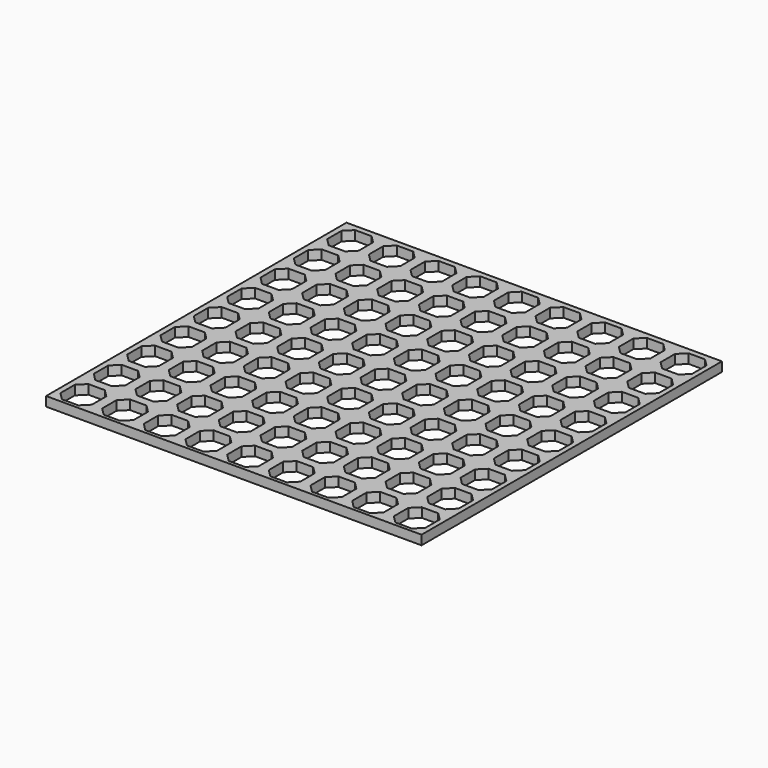
from build123d import *

# Parameters (mm, degrees)
F0_W     = 254
F0_H     = 254
F1_DEPTH = 6.35
F3_DEPTH = 25.4


with BuildPart() as f1:
    # F0 (on Top) → F1 (new body)
    with BuildSketch(Plane.XY):
        Rectangle(F0_W, F0_H)
    extrude(amount=F1_DEPTH)

    # F2 (on face) → F3 (cut)
    with BuildSketch(Plane.XY.offset(6.35)):
        Polygon((-106.986462, 123.19), (-118.11, 123.19), (-123.19, 118.11), (-123.19, 105.934143), (-118.11, 100.854143), (-106.986462, 100.854143), (-101.906462, 105.934143), (-101.906462, 118.11), align=None)
        Polygon((-73.712462, 105.934143), (-73.712462, 118.11), (-78.792462, 123.19), (-89.916, 123.19), (-94.996, 118.11), (-94.996, 105.934143), (-89.916, 100.854143), (-78.792462, 100.854143), align=None)
        Polygon((-45.518462, 105.934143), (-45.518462, 118.11), (-50.598462, 123.19), (-61.722, 123.19), (-66.802, 118.11), (-66.802, 105.934143), (-61.722, 100.854143), (-50.598462, 100.854143), align=None)
        Polygon((-17.324462, 105.934143), (-17.324462, 118.11), (-22.404462, 123.19), (-33.528, 123.19), (-38.608, 118.11), (-38.608, 105.934143), (-33.528, 100.854143), (-22.404462, 100.854143), align=None)
        Polygon((10.869538, 105.934143), (10.869538, 118.11), (5.789538, 123.19), (-5.334, 123.19), (-10.414, 118.11), (-10.414, 105.934143), (-5.334, 100.854143), (5.789538, 100.854143), align=None)
        Polygon((39.063538, 105.934143), (39.063538, 118.11), (33.983538, 123.19), (22.86, 123.19), (17.78, 118.11), (17.78, 105.934143), (22.86, 100.854143), (33.983538, 100.854143), align=None)
        Polygon((67.257538, 105.934143), (67.257538, 118.11), (62.177538, 123.19), (51.054, 123.19), (45.974, 118.11), (45.974, 105.934143), (51.054, 100.854143), (62.177538, 100.854143), align=None)
        Polygon((95.451538, 105.934143), (95.451538, 118.11), (90.371538, 123.19), (79.248, 123.19), (74.168, 118.11), (74.168, 105.934143), (79.248, 100.854143), (90.371538, 100.854143), align=None)
        Polygon((123.645538, 105.934143), (123.645538, 118.11), (118.565538, 123.19), (107.442, 123.19), (102.362, 118.11), (102.362, 105.934143), (107.442, 100.854143), (118.565538, 100.854143), align=None)
        Polygon((151.839538, 105.934143), (151.839538, 118.11), (146.759538, 123.19), (135.636, 123.19), (130.556, 118.11), (130.556, 105.934143), (135.636, 100.854143), (146.759538, 100.854143), align=None)
        Polygon((107.442, 94.996), (102.362, 89.916), (102.362, 77.740143), (107.442, 72.660143), (118.565538, 72.660143), (123.645538, 77.740143), (123.645538, 89.916), (118.565538, 94.996), align=None)
        Polygon((51.054, 94.996), (45.974, 89.916), (45.974, 77.740143), (51.054, 72.660143), (62.177538, 72.660143), (67.257538, 77.740143), (67.257538, 89.916), (62.177538, 94.996), align=None)
        Polygon((-61.722, 94.996), (-66.802, 89.916), (-66.802, 77.740143), (-61.722, 72.660143), (-50.598462, 72.660143), (-45.518462, 77.740143), (-45.518462, 89.916), (-50.598462, 94.996), align=None)
        Polygon((-89.916, 94.996), (-94.996, 89.916), (-94.996, 77.740143), (-89.916, 72.660143), (-78.792462, 72.660143), (-73.712462, 77.740143), (-73.712462, 89.916), (-78.792462, 94.996), align=None)
        Polygon((-118.11, 94.996), (-123.19, 89.916), (-123.19, 77.740143), (-118.11, 72.660143), (-106.986462, 72.660143), (-101.906462, 77.740143), (-101.906462, 89.916), (-106.986462, 94.996), align=None)
        Polygon((151.839538, 77.740143), (151.839538, 89.916), (146.759538, 94.996), (135.636, 94.996), (130.556, 89.916), (130.556, 77.740143), (135.636, 72.660143), (146.759538, 72.660143), align=None)
        Polygon((95.451538, 77.740143), (95.451538, 89.916), (90.371538, 94.996), (79.248, 94.996), (74.168, 89.916), (74.168, 77.740143), (79.248, 72.660143), (90.371538, 72.660143), align=None)
        Polygon((39.063538, 77.740143), (39.063538, 89.916), (33.983538, 94.996), (22.86, 94.996), (17.78, 89.916), (17.78, 77.740143), (22.86, 72.660143), (33.983538, 72.660143), align=None)
        Polygon((-17.324462, 77.740143), (-17.324462, 89.916), (-22.404462, 94.996), (-33.528, 94.996), (-38.608, 89.916), (-38.608, 77.740143), (-33.528, 72.660143), (-22.404462, 72.660143), align=None)
        Polygon((-5.334, 94.996), (-10.414, 89.916), (-10.414, 77.740143), (-5.334, 72.660143), (5.789538, 72.660143), (10.869538, 77.740143), (10.869538, 89.916), (5.789538, 94.996), align=None)
        Polygon((107.442, 66.802), (102.362, 61.722), (102.362, 49.546143), (107.442, 44.466143), (118.565538, 44.466143), (123.645538, 49.546143), (123.645538, 61.722), (118.565538, 66.802), align=None)
        Polygon((51.054, 66.802), (45.974, 61.722), (45.974, 49.546143), (51.054, 44.466143), (62.177538, 44.466143), (67.257538, 49.546143), (67.257538, 61.722), (62.177538, 66.802), align=None)
        Polygon((-61.722, 66.802), (-66.802, 61.722), (-66.802, 49.546143), (-61.722, 44.466143), (-50.598462, 44.466143), (-45.518462, 49.546143), (-45.518462, 61.722), (-50.598462, 66.802), align=None)
        Polygon((-89.916, 66.802), (-94.996, 61.722), (-94.996, 49.546143), (-89.916, 44.466143), (-78.792462, 44.466143), (-73.712462, 49.546143), (-73.712462, 61.722), (-78.792462, 66.802), align=None)
        Polygon((-118.11, 66.802), (-123.19, 61.722), (-123.19, 49.546143), (-118.11, 44.466143), (-106.986462, 44.466143), (-101.906462, 49.546143), (-101.906462, 61.722), (-106.986462, 66.802), align=None)
        Polygon((151.839538, 49.546143), (151.839538, 61.722), (146.759538, 66.802), (135.636, 66.802), (130.556, 61.722), (130.556, 49.546143), (135.636, 44.466143), (146.759538, 44.466143), align=None)
        Polygon((95.451538, 49.546143), (95.451538, 61.722), (90.371538, 66.802), (79.248, 66.802), (74.168, 61.722), (74.168, 49.546143), (79.248, 44.466143), (90.371538, 44.466143), align=None)
        Polygon((39.063538, 49.546143), (39.063538, 61.722), (33.983538, 66.802), (22.86, 66.802), (17.78, 61.722), (17.78, 49.546143), (22.86, 44.466143), (33.983538, 44.466143), align=None)
        Polygon((-17.324462, 49.546143), (-17.324462, 61.722), (-22.404462, 66.802), (-33.528, 66.802), (-38.608, 61.722), (-38.608, 49.546143), (-33.528, 44.466143), (-22.404462, 44.466143), align=None)
        Polygon((-5.334, 66.802), (-10.414, 61.722), (-10.414, 49.546143), (-5.334, 44.466143), (5.789538, 44.466143), (10.869538, 49.546143), (10.869538, 61.722), (5.789538, 66.802), align=None)
        Polygon((107.442, 38.608), (102.362, 33.528), (102.362, 21.352143), (107.442, 16.272143), (118.565538, 16.272143), (123.645538, 21.352143), (123.645538, 33.528), (118.565538, 38.608), align=None)
        Polygon((51.054, 38.608), (45.974, 33.528), (45.974, 21.352143), (51.054, 16.272143), (62.177538, 16.272143), (67.257538, 21.352143), (67.257538, 33.528), (62.177538, 38.608), align=None)
        Polygon((-61.722, 38.608), (-66.802, 33.528), (-66.802, 21.352143), (-61.722, 16.272143), (-50.598462, 16.272143), (-45.518462, 21.352143), (-45.518462, 33.528), (-50.598462, 38.608), align=None)
        Polygon((-89.916, 38.608), (-94.996, 33.528), (-94.996, 21.352143), (-89.916, 16.272143), (-78.792462, 16.272143), (-73.712462, 21.352143), (-73.712462, 33.528), (-78.792462, 38.608), align=None)
        Polygon((-118.11, 38.608), (-123.19, 33.528), (-123.19, 21.352143), (-118.11, 16.272143), (-106.986462, 16.272143), (-101.906462, 21.352143), (-101.906462, 33.528), (-106.986462, 38.608), align=None)
        Polygon((151.839538, 21.352143), (151.839538, 33.528), (146.759538, 38.608), (135.636, 38.608), (130.556, 33.528), (130.556, 21.352143), (135.636, 16.272143), (146.759538, 16.272143), align=None)
        Polygon((95.451538, 21.352143), (95.451538, 33.528), (90.371538, 38.608), (79.248, 38.608), (74.168, 33.528), (74.168, 21.352143), (79.248, 16.272143), (90.371538, 16.272143), align=None)
        Polygon((39.063538, 21.352143), (39.063538, 33.528), (33.983538, 38.608), (22.86, 38.608), (17.78, 33.528), (17.78, 21.352143), (22.86, 16.272143), (33.983538, 16.272143), align=None)
        Polygon((-17.324462, 21.352143), (-17.324462, 33.528), (-22.404462, 38.608), (-33.528, 38.608), (-38.608, 33.528), (-38.608, 21.352143), (-33.528, 16.272143), (-22.404462, 16.272143), align=None)
        Polygon((-5.334, 38.608), (-10.414, 33.528), (-10.414, 21.352143), (-5.334, 16.272143), (5.789538, 16.272143), (10.869538, 21.352143), (10.869538, 33.528), (5.789538, 38.608), align=None)
        Polygon((107.442, 10.414), (102.362, 5.334), (102.362, -6.841857), (107.442, -11.921857), (118.565538, -11.921857), (123.645538, -6.841857), (123.645538, 5.334), (118.565538, 10.414), align=None)
        Polygon((51.054, 10.414), (45.974, 5.334), (45.974, -6.841857), (51.054, -11.921857), (62.177538, -11.921857), (67.257538, -6.841857), (67.257538, 5.334), (62.177538, 10.414), align=None)
        Polygon((-61.722, 10.414), (-66.802, 5.334), (-66.802, -6.841857), (-61.722, -11.921857), (-50.598462, -11.921857), (-45.518462, -6.841857), (-45.518462, 5.334), (-50.598462, 10.414), align=None)
        Polygon((-89.916, 10.414), (-94.996, 5.334), (-94.996, -6.841857), (-89.916, -11.921857), (-78.792462, -11.921857), (-73.712462, -6.841857), (-73.712462, 5.334), (-78.792462, 10.414), align=None)
        Polygon((-118.11, 10.414), (-123.19, 5.334), (-123.19, -6.841857), (-118.11, -11.921857), (-106.986462, -11.921857), (-101.906462, -6.841857), (-101.906462, 5.334), (-106.986462, 10.414), align=None)
        Polygon((151.839538, -6.841857), (151.839538, 5.334), (146.759538, 10.414), (135.636, 10.414), (130.556, 5.334), (130.556, -6.841857), (135.636, -11.921857), (146.759538, -11.921857), align=None)
        Polygon((95.451538, -6.841857), (95.451538, 5.334), (90.371538, 10.414), (79.248, 10.414), (74.168, 5.334), (74.168, -6.841857), (79.248, -11.921857), (90.371538, -11.921857), align=None)
        Polygon((39.063538, -6.841857), (39.063538, 5.334), (33.983538, 10.414), (22.86, 10.414), (17.78, 5.334), (17.78, -6.841857), (22.86, -11.921857), (33.983538, -11.921857), align=None)
        Polygon((-17.324462, -6.841857), (-17.324462, 5.334), (-22.404462, 10.414), (-33.528, 10.414), (-38.608, 5.334), (-38.608, -6.841857), (-33.528, -11.921857), (-22.404462, -11.921857), align=None)
        Polygon((-5.334, 10.414), (-10.414, 5.334), (-10.414, -6.841857), (-5.334, -11.921857), (5.789538, -11.921857), (10.869538, -6.841857), (10.869538, 5.334), (5.789538, 10.414), align=None)
        Polygon((107.442, -17.78), (102.362, -22.86), (102.362, -35.035857), (107.442, -40.115857), (118.565538, -40.115857), (123.645538, -35.035857), (123.645538, -22.86), (118.565538, -17.78), align=None)
        Polygon((51.054, -17.78), (45.974, -22.86), (45.974, -35.035857), (51.054, -40.115857), (62.177538, -40.115857), (67.257538, -35.035857), (67.257538, -22.86), (62.177538, -17.78), align=None)
        Polygon((-61.722, -17.78), (-66.802, -22.86), (-66.802, -35.035857), (-61.722, -40.115857), (-50.598462, -40.115857), (-45.518462, -35.035857), (-45.518462, -22.86), (-50.598462, -17.78), align=None)
        Polygon((-89.916, -17.78), (-94.996, -22.86), (-94.996, -35.035857), (-89.916, -40.115857), (-78.792462, -40.115857), (-73.712462, -35.035857), (-73.712462, -22.86), (-78.792462, -17.78), align=None)
        Polygon((-118.11, -17.78), (-123.19, -22.86), (-123.19, -35.035857), (-118.11, -40.115857), (-106.986462, -40.115857), (-101.906462, -35.035857), (-101.906462, -22.86), (-106.986462, -17.78), align=None)
        Polygon((151.839538, -35.035857), (151.839538, -22.86), (146.759538, -17.78), (135.636, -17.78), (130.556, -22.86), (130.556, -35.035857), (135.636, -40.115857), (146.759538, -40.115857), align=None)
        Polygon((95.451538, -35.035857), (95.451538, -22.86), (90.371538, -17.78), (79.248, -17.78), (74.168, -22.86), (74.168, -35.035857), (79.248, -40.115857), (90.371538, -40.115857), align=None)
        Polygon((39.063538, -35.035857), (39.063538, -22.86), (33.983538, -17.78), (22.86, -17.78), (17.78, -22.86), (17.78, -35.035857), (22.86, -40.115857), (33.983538, -40.115857), align=None)
        Polygon((-17.324462, -35.035857), (-17.324462, -22.86), (-22.404462, -17.78), (-33.528, -17.78), (-38.608, -22.86), (-38.608, -35.035857), (-33.528, -40.115857), (-22.404462, -40.115857), align=None)
        Polygon((-5.334, -17.78), (-10.414, -22.86), (-10.414, -35.035857), (-5.334, -40.115857), (5.789538, -40.115857), (10.869538, -35.035857), (10.869538, -22.86), (5.789538, -17.78), align=None)
        Polygon((107.442, -45.974), (102.362, -51.054), (102.362, -63.229857), (107.442, -68.309857), (118.565538, -68.309857), (123.645538, -63.229857), (123.645538, -51.054), (118.565538, -45.974), align=None)
        Polygon((51.054, -45.974), (45.974, -51.054), (45.974, -63.229857), (51.054, -68.309857), (62.177538, -68.309857), (67.257538, -63.229857), (67.257538, -51.054), (62.177538, -45.974), align=None)
        Polygon((-61.722, -45.974), (-66.802, -51.054), (-66.802, -63.229857), (-61.722, -68.309857), (-50.598462, -68.309857), (-45.518462, -63.229857), (-45.518462, -51.054), (-50.598462, -45.974), align=None)
        Polygon((-89.916, -45.974), (-94.996, -51.054), (-94.996, -63.229857), (-89.916, -68.309857), (-78.792462, -68.309857), (-73.712462, -63.229857), (-73.712462, -51.054), (-78.792462, -45.974), align=None)
        Polygon((-118.11, -45.974), (-123.19, -51.054), (-123.19, -63.229857), (-118.11, -68.309857), (-106.986462, -68.309857), (-101.906462, -63.229857), (-101.906462, -51.054), (-106.986462, -45.974), align=None)
        Polygon((151.839538, -63.229857), (151.839538, -51.054), (146.759538, -45.974), (135.636, -45.974), (130.556, -51.054), (130.556, -63.229857), (135.636, -68.309857), (146.759538, -68.309857), align=None)
        Polygon((95.451538, -63.229857), (95.451538, -51.054), (90.371538, -45.974), (79.248, -45.974), (74.168, -51.054), (74.168, -63.229857), (79.248, -68.309857), (90.371538, -68.309857), align=None)
        Polygon((39.063538, -63.229857), (39.063538, -51.054), (33.983538, -45.974), (22.86, -45.974), (17.78, -51.054), (17.78, -63.229857), (22.86, -68.309857), (33.983538, -68.309857), align=None)
        Polygon((-17.324462, -63.229857), (-17.324462, -51.054), (-22.404462, -45.974), (-33.528, -45.974), (-38.608, -51.054), (-38.608, -63.229857), (-33.528, -68.309857), (-22.404462, -68.309857), align=None)
        Polygon((-5.334, -45.974), (-10.414, -51.054), (-10.414, -63.229857), (-5.334, -68.309857), (5.789538, -68.309857), (10.869538, -63.229857), (10.869538, -51.054), (5.789538, -45.974), align=None)
        Polygon((107.442, -74.168), (102.362, -79.248), (102.362, -91.423857), (107.442, -96.503857), (118.565538, -96.503857), (123.645538, -91.423857), (123.645538, -79.248), (118.565538, -74.168), align=None)
        Polygon((51.054, -74.168), (45.974, -79.248), (45.974, -91.423857), (51.054, -96.503857), (62.177538, -96.503857), (67.257538, -91.423857), (67.257538, -79.248), (62.177538, -74.168), align=None)
        Polygon((-61.722, -74.168), (-66.802, -79.248), (-66.802, -91.423857), (-61.722, -96.503857), (-50.598462, -96.503857), (-45.518462, -91.423857), (-45.518462, -79.248), (-50.598462, -74.168), align=None)
        Polygon((-89.916, -74.168), (-94.996, -79.248), (-94.996, -91.423857), (-89.916, -96.503857), (-78.792462, -96.503857), (-73.712462, -91.423857), (-73.712462, -79.248), (-78.792462, -74.168), align=None)
        Polygon((-118.11, -74.168), (-123.19, -79.248), (-123.19, -91.423857), (-118.11, -96.503857), (-106.986462, -96.503857), (-101.906462, -91.423857), (-101.906462, -79.248), (-106.986462, -74.168), align=None)
        Polygon((151.839538, -91.423857), (151.839538, -79.248), (146.759538, -74.168), (135.636, -74.168), (130.556, -79.248), (130.556, -91.423857), (135.636, -96.503857), (146.759538, -96.503857), align=None)
        Polygon((95.451538, -91.423857), (95.451538, -79.248), (90.371538, -74.168), (79.248, -74.168), (74.168, -79.248), (74.168, -91.423857), (79.248, -96.503857), (90.371538, -96.503857), align=None)
        Polygon((39.063538, -91.423857), (39.063538, -79.248), (33.983538, -74.168), (22.86, -74.168), (17.78, -79.248), (17.78, -91.423857), (22.86, -96.503857), (33.983538, -96.503857), align=None)
        Polygon((-17.324462, -91.423857), (-17.324462, -79.248), (-22.404462, -74.168), (-33.528, -74.168), (-38.608, -79.248), (-38.608, -91.423857), (-33.528, -96.503857), (-22.404462, -96.503857), align=None)
        Polygon((-5.334, -74.168), (-10.414, -79.248), (-10.414, -91.423857), (-5.334, -96.503857), (5.789538, -96.503857), (10.869538, -91.423857), (10.869538, -79.248), (5.789538, -74.168), align=None)
        Polygon((107.442, -102.362), (102.362, -107.442), (102.362, -119.617857), (107.442, -124.697857), (118.565538, -124.697857), (123.645538, -119.617857), (123.645538, -107.442), (118.565538, -102.362), align=None)
        Polygon((51.054, -102.362), (45.974, -107.442), (45.974, -119.617857), (51.054, -124.697857), (62.177538, -124.697857), (67.257538, -119.617857), (67.257538, -107.442), (62.177538, -102.362), align=None)
        Polygon((-61.722, -102.362), (-66.802, -107.442), (-66.802, -119.617857), (-61.722, -124.697857), (-50.598462, -124.697857), (-45.518462, -119.617857), (-45.518462, -107.442), (-50.598462, -102.362), align=None)
        Polygon((-89.916, -102.362), (-94.996, -107.442), (-94.996, -119.617857), (-89.916, -124.697857), (-78.792462, -124.697857), (-73.712462, -119.617857), (-73.712462, -107.442), (-78.792462, -102.362), align=None)
        Polygon((-118.11, -102.362), (-123.19, -107.442), (-123.19, -119.617857), (-118.11, -124.697857), (-106.986462, -124.697857), (-101.906462, -119.617857), (-101.906462, -107.442), (-106.986462, -102.362), align=None)
        Polygon((151.839538, -119.617857), (151.839538, -107.442), (146.759538, -102.362), (135.636, -102.362), (130.556, -107.442), (130.556, -119.617857), (135.636, -124.697857), (146.759538, -124.697857), align=None)
        Polygon((95.451538, -119.617857), (95.451538, -107.442), (90.371538, -102.362), (79.248, -102.362), (74.168, -107.442), (74.168, -119.617857), (79.248, -124.697857), (90.371538, -124.697857), align=None)
        Polygon((39.063538, -119.617857), (39.063538, -107.442), (33.983538, -102.362), (22.86, -102.362), (17.78, -107.442), (17.78, -119.617857), (22.86, -124.697857), (33.983538, -124.697857), align=None)
        Polygon((-17.324462, -119.617857), (-17.324462, -107.442), (-22.404462, -102.362), (-33.528, -102.362), (-38.608, -107.442), (-38.608, -119.617857), (-33.528, -124.697857), (-22.404462, -124.697857), align=None)
        Polygon((-5.334, -102.362), (-10.414, -107.442), (-10.414, -119.617857), (-5.334, -124.697857), (5.789538, -124.697857), (10.869538, -119.617857), (10.869538, -107.442), (5.789538, -102.362), align=None)
        Polygon((107.442, -130.556), (102.362, -135.636), (102.362, -147.811857), (107.442, -152.891857), (118.565538, -152.891857), (123.645538, -147.811857), (123.645538, -135.636), (118.565538, -130.556), align=None)
        Polygon((51.054, -130.556), (45.974, -135.636), (45.974, -147.811857), (51.054, -152.891857), (62.177538, -152.891857), (67.257538, -147.811857), (67.257538, -135.636), (62.177538, -130.556), align=None)
        Polygon((-61.722, -130.556), (-66.802, -135.636), (-66.802, -147.811857), (-61.722, -152.891857), (-50.598462, -152.891857), (-45.518462, -147.811857), (-45.518462, -135.636), (-50.598462, -130.556), align=None)
        Polygon((-89.916, -130.556), (-94.996, -135.636), (-94.996, -147.811857), (-89.916, -152.891857), (-78.792462, -152.891857), (-73.712462, -147.811857), (-73.712462, -135.636), (-78.792462, -130.556), align=None)
        Polygon((-118.11, -130.556), (-123.19, -135.636), (-123.19, -147.811857), (-118.11, -152.891857), (-106.986462, -152.891857), (-101.906462, -147.811857), (-101.906462, -135.636), (-106.986462, -130.556), align=None)
        Polygon((151.839538, -147.811857), (151.839538, -135.636), (146.759538, -130.556), (135.636, -130.556), (130.556, -135.636), (130.556, -147.811857), (135.636, -152.891857), (146.759538, -152.891857), align=None)
        Polygon((95.451538, -147.811857), (95.451538, -135.636), (90.371538, -130.556), (79.248, -130.556), (74.168, -135.636), (74.168, -147.811857), (79.248, -152.891857), (90.371538, -152.891857), align=None)
        Polygon((39.063538, -147.811857), (39.063538, -135.636), (33.983538, -130.556), (22.86, -130.556), (17.78, -135.636), (17.78, -147.811857), (22.86, -152.891857), (33.983538, -152.891857), align=None)
        Polygon((-17.324462, -147.811857), (-17.324462, -135.636), (-22.404462, -130.556), (-33.528, -130.556), (-38.608, -135.636), (-38.608, -147.811857), (-33.528, -152.891857), (-22.404462, -152.891857), align=None)
        Polygon((-5.334, -130.556), (-10.414, -135.636), (-10.414, -147.811857), (-5.334, -152.891857), (5.789538, -152.891857), (10.869538, -147.811857), (10.869538, -135.636), (5.789538, -130.556), align=None)
    extrude(amount=-F3_DEPTH, mode=Mode.SUBTRACT)


solid = f1.part
